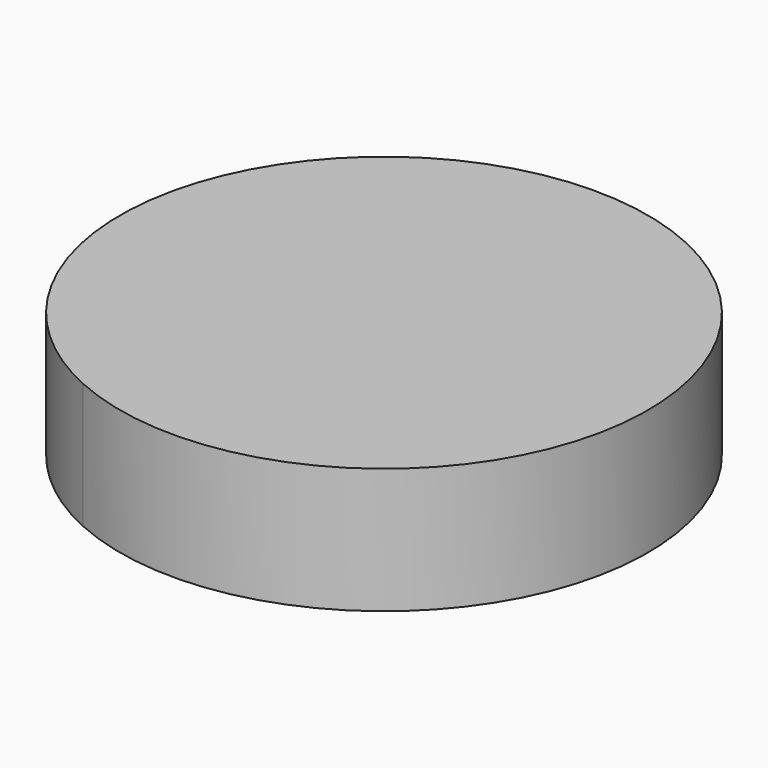
from build123d import *

# Parameters (mm, degrees)
F1_DEPTH = 25.4


with BuildPart() as f1:
    # F0 (on Top) → F1 (new body)
    with BuildSketch(Plane.XY):
        with BuildLine():
            ThreePointArc((-10.0484423342, -34.7080605929), (21.7087142166, -28.885158655), (36.1333732644, 0))
            ThreePointArc((36.1333732644, 0), (-7.9324673187, 35.2519024409), (-32.6504967944, -15.4779107939))
            ThreePointArc((-32.6504967944, -15.4779107939), (-22.7114375755, -26.6937675638), (-10.0484423342, -34.7080605929))
        make_face()
        with BuildLine():
            ThreePointArc((-32.6504967944, -15.4779107939), (-7.9324673187, 35.2519024409), (36.1333732644, 0))
            ThreePointArc((36.1333732644, 0), (21.7087142166, -28.885158655), (-10.0484423342, -34.7080605929))
            ThreePointArc((-10.0484423342, -34.7080605929), (40.9028435571, -30.8772885155), (65.3356248168, 13.9975100756))
            ThreePointArc((65.3356248168, 13.9975100756), (-3.4807843324, 65.159215637), (-32.6504967944, -15.4779107939))
        make_face()
    extrude(amount=F1_DEPTH)


solid = f1.part
